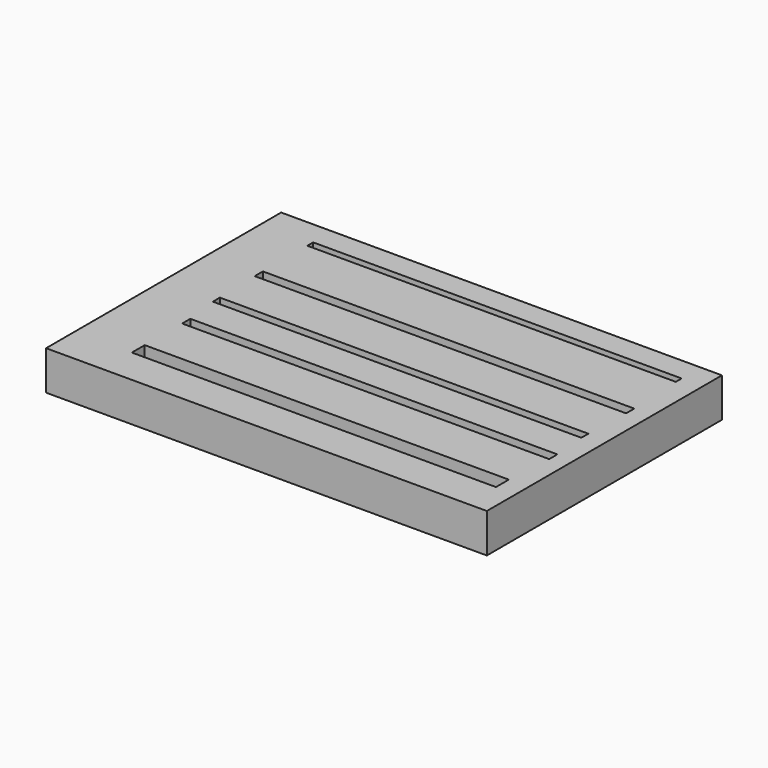
from build123d import *

# Parameters (mm, degrees)
F0_W     = 57.15
F0_H     = 38.1
F1_DEPTH = 5.08
F2_W     = 47.778485
F2_H     = 0.947986
F2_W_2   = 48.157679
F2_H_2   = 1.327179
F2_W_3   = 47.778484
F2_H_3   = 1.137582
F2_W_4   = 47.588886
F2_W_5   = 47.209692
F2_H_4   = 2.085569
F3_DEPTH = 115163.6


with BuildPart() as f1:
    # F0 (on Top) → F1 (new body)
    with BuildSketch(Plane.XY):
        with Locations((-28.575, 27.171315)):
            Rectangle(F0_W, F0_H)
    extrude(amount=F1_DEPTH)

    # F2 (on face) → F3 (cut)
    with BuildSketch(Plane.XY.offset(5.08)):
        with Locations((-26.6384, 42.659359)):
            Rectangle(F2_W, F2_H)
        with Locations((-26.448804, 34.317087)):
            Rectangle(F2_W_2, F2_H_2)
        with Locations((-26.448803, 27.207193)):
            Rectangle(F2_W_3, F2_H_3)
        with Locations((-25.97481, 21.614075)):
            Rectangle(F2_W_4, F2_H_2)
        with Locations((-26.164407, 13.840592)):
            Rectangle(F2_W_5, F2_H_4)
    extrude(amount=-F3_DEPTH, mode=Mode.SUBTRACT)


solid = f1.part
